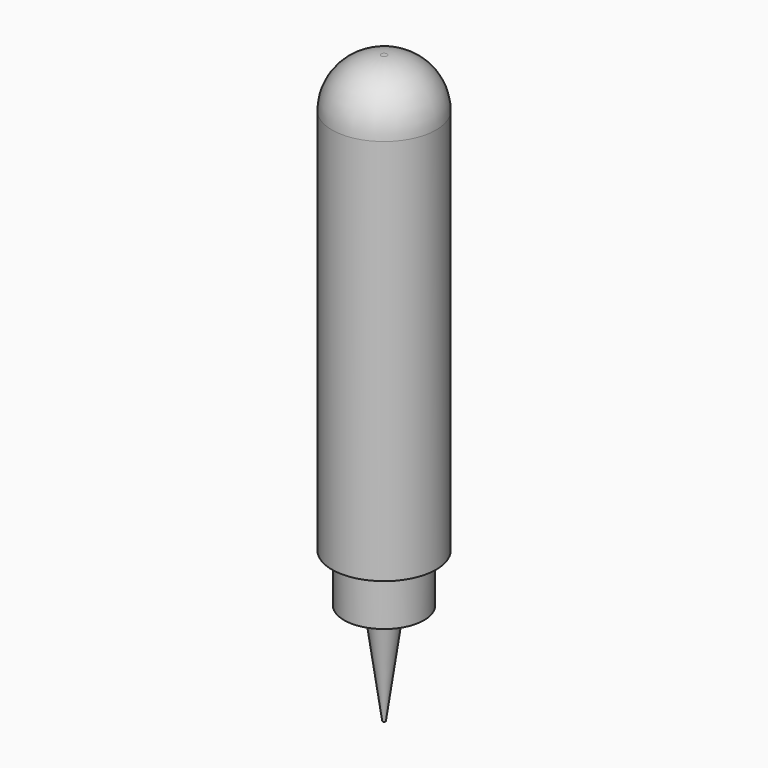
from build123d import *

# Parameters (mm, degrees)
F1_START = 50
F0_R     = 21.5
F0_R_2   = 16.5
F1_DEPTH = 200
F2_DEPTH = 70
F3_R     = 6.5
F4_DEPTH = 42
F4_TAPER = 8
F5_R     = 20.2793939239


with BuildPart() as f1:
    # F0 (on Top) → F1 (new body)
    with BuildSketch(Plane.XY.offset(F1_START)):
        with Locations((27.2554606199, 24.6764030308)):
            Circle(F0_R)
        with Locations((27.2554606199, 24.6764030308)):
            Circle(F0_R_2, mode=Mode.SUBTRACT)
        with Locations((27.2554606199, 24.6764030308)):
            Circle(F0_R_2)
    extrude(amount=F1_DEPTH)

    # F0 (on Top) → F2 (cut)
    with BuildSketch(Plane.XY):
        with Locations((27.2554606199, 24.6764030308)):
            Circle(F0_R)
        with Locations((27.2554606199, 24.6764030308)):
            Circle(F0_R_2, mode=Mode.SUBTRACT)
    extrude(amount=F2_DEPTH, mode=Mode.SUBTRACT)

    # F3 (on face) → F4 (join)
    with BuildSketch(Plane(origin=(0, 0, 50), x_dir=(1, 0, 0), z_dir=(0, 0, -1))):
        with Locations((27.2554606199, -24.6764030308)):
            Circle(F3_R)
    extrude(amount=F4_DEPTH, taper=F4_TAPER)

    # F5
    f5_edges = [f1.edges().sort_by_distance(p)[0] for p in [
        (5.755461, 24.676403, 250),
    ]]
    fillet(f5_edges, radius=F5_R)


solid = f1.part
